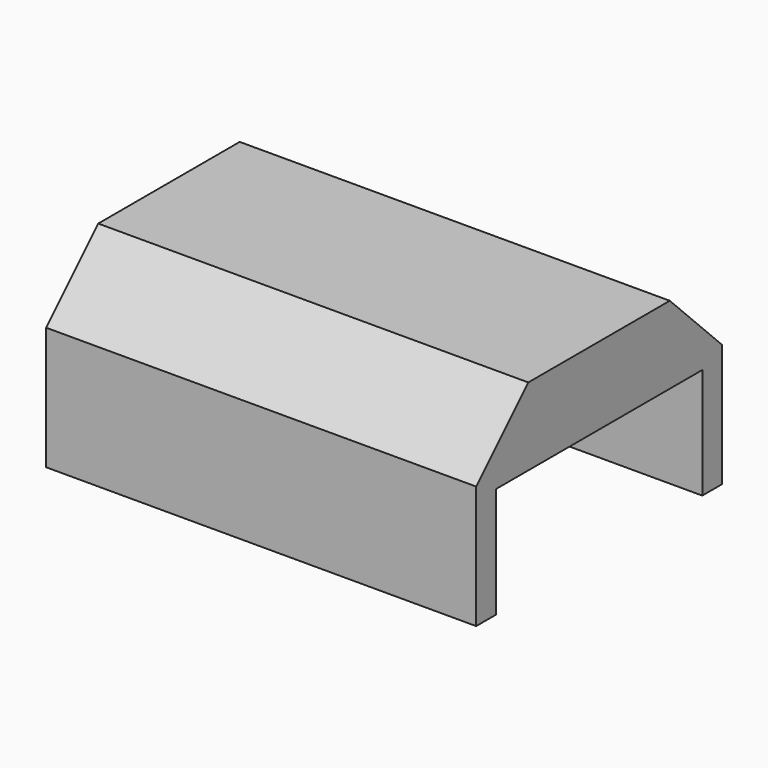
from build123d import *

# Parameters (mm, degrees)
F0_W     = 17.78
F0_H     = 12.7
F1_DEPTH = 5.08
F3_DEPTH = 17.78
F4_W     = 10.668
F4_H     = 4.572
F5_DEPTH = 17.018


with BuildPart() as f1:
    # F0 (on Top) → F1 (new body)
    with BuildSketch(Plane.XY):
        Rectangle(F0_W, F0_H)
    extrude(amount=F1_DEPTH)

    # F2 (on face) → F3 (join)
    with BuildSketch(Plane.YZ.offset(8.89)):
        Polygon((-3.655923, 7.774077), (-6.35, 5.08), (6.35, 5.08), (3.655923, 7.774077), (0, 7.774077), align=None)
    extrude(amount=-F3_DEPTH)

    # F4 (on face) → F5 (cut)
    with BuildSketch(Plane.YZ.offset(8.89)):
        with Locations((0, 2.286)):
            Rectangle(F4_W, F4_H)
    extrude(amount=-F5_DEPTH, mode=Mode.SUBTRACT)


solid = f1.part
